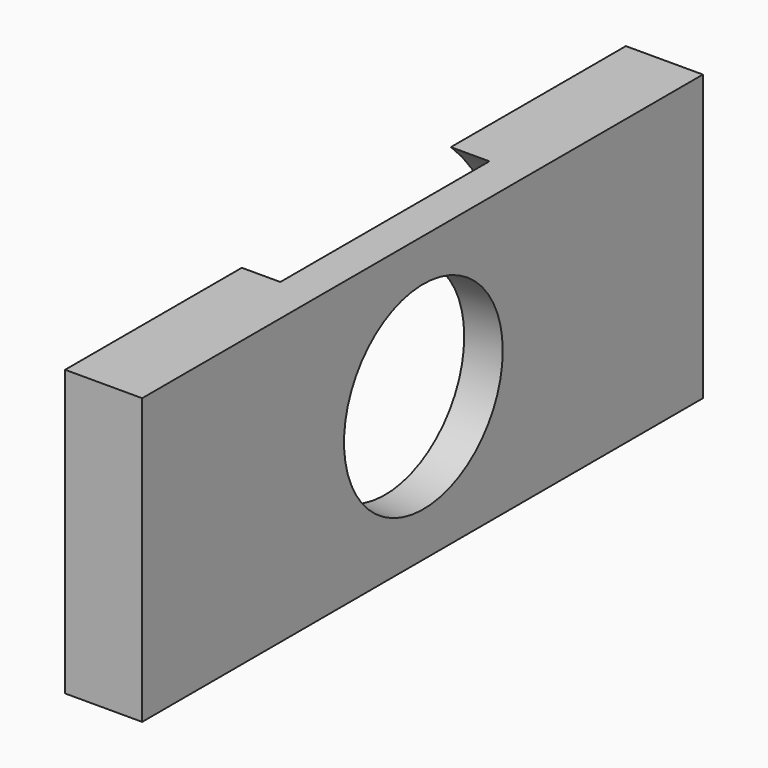
from build123d import *

# Parameters (mm, degrees)
F0_W     = 53.743943572
F0_H     = 29.5948740095
F0_R     = 10.3
F1_DEPTH = 8
F2_R     = 20
F3_DEPTH = 4
F4_DEPTH = 12.7
F5_DEPTH = 6.35


with BuildPart() as f1:
    # F0 (on Right) → F1 (new body)
    with BuildSketch(Plane.YZ):
        with Locations((-26.871971786, -14.7974370047)):
            Rectangle(F0_W, F0_H)
        with Locations((-23.5863085836, -14.6930906922)):
            Circle(F0_R, mode=Mode.SUBTRACT)
    extrude(amount=F1_DEPTH)

    # F2 (on face) → F3 (cut)
    with BuildSketch(Plane(origin=(0, 0, 0), x_dir=(0, -1, 0), z_dir=(-1, 0, 0))):
        with Locations((23.5863085836, -14.6930906922)):
            Circle(F2_R)
    extrude(amount=-F3_DEPTH, mode=Mode.SUBTRACT)

    # F4 (add): a face of the model
    f4_faces = [f1.faces().sort_by_distance(p)[0] for p in [
        (4, 0, -14.7974370047),
    ]]
    extrude(f4_faces, amount=F4_DEPTH)

    # F5 (add): a face of the model
    f5_faces = [f1.faces().sort_by_distance(p)[0] for p in [
        (4, -53.743943572, -14.7974370047),
    ]]
    extrude(f5_faces, amount=F5_DEPTH)


solid = f1.part
